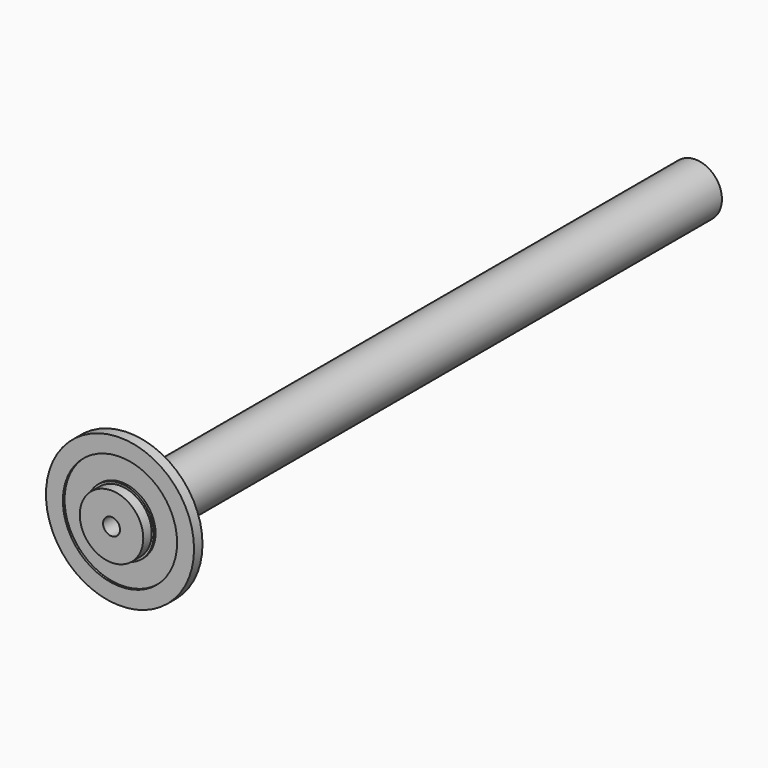
from build123d import *


with BuildPart() as f1:
    # F0 (on Top) → F1 (revolve)
    with BuildSketch(Plane.XY):
        Polygon((12.5, -165), (4, -165), (4, -180), (15, -180), (15, -175), (16, -175), (16, -174), (27, -174), (27, -175), (35, -175), (35, -170), align=None)
        Polygon((4, -160), (4, -165), (12.5, -165), (12.5, 165), (0, 165), (0, -157.690599), align=None)
    revolve(axis=Axis((0, 0, 0), (0, 1, 0)))


solid = f1.part
